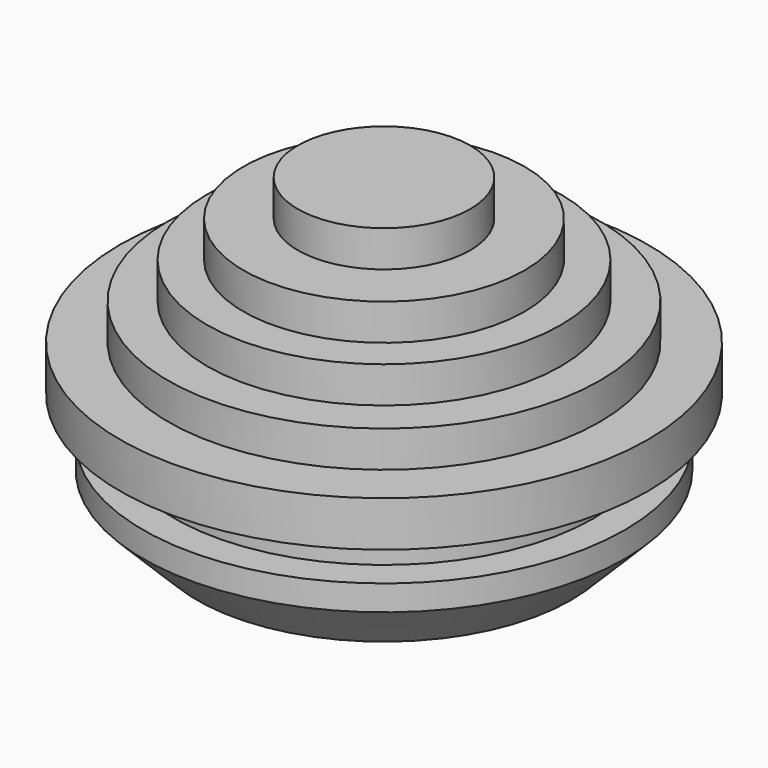
from build123d import *


with BuildPart() as part:
    # Sketch → Revolution (revolve)
    with BuildSketch(Plane.XZ):
        Polygon((14.55, 0), (11.55, 0), (11.55, -2.3), (13.275, -2.3), (13.275, -3.7), (10.3, -6.675), (10.3, 2.5), (7.75, 2.5), (7.75, 4.5), (5.75, 4.5), (5.75, 6.5), (2.75, 6.5), (2.75, 8.5), (0, 8.5), (0, 10.5), (4.75, 10.5), (4.75, 8.5), (7.75, 8.5), (7.75, 6.5), (9.75, 6.5), (9.75, 4.5), (11.9, 4.5), (11.9, 2.5), (14.55, 2.5), align=None)
    revolve(axis=Axis((0, 0, 0), (0, 0, 1)))


solid = part.part
